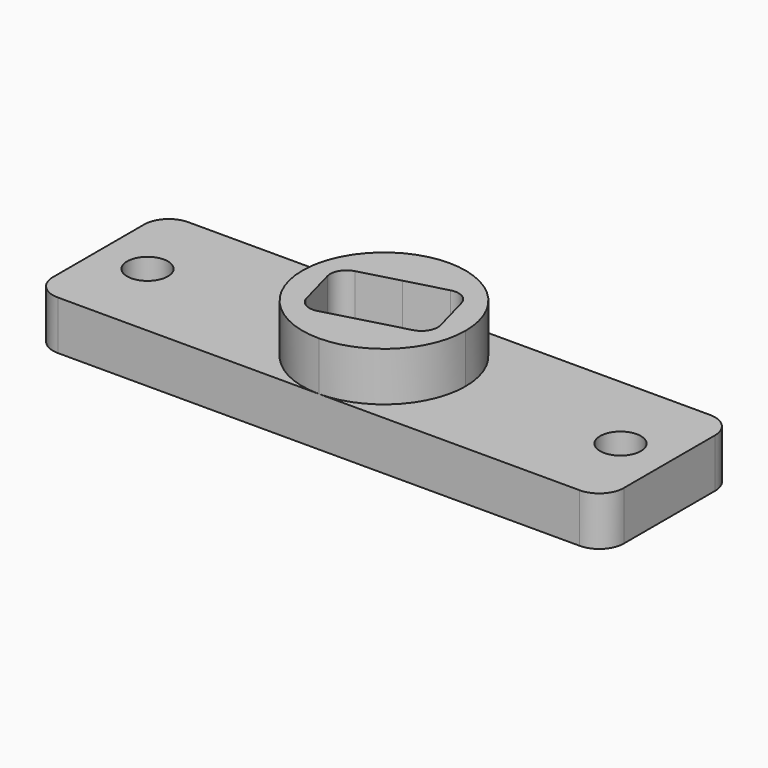
from build123d import *

# Parameters (mm, degrees)
F0_W      = 35
F0_H      = 10
F1_DEPTH  = 3
F2_R      = 1.5
F4_DEPTH  = 3
F6_DEPTH  = 6
F7_R      = 1
F8_R      = 1.25
F10_DEPTH = 3
F9_R      = 1.25
F11_DEPTH = 3


with BuildPart() as f1:
    # F0 (on Top) → F1 (new body)
    with BuildSketch(Plane.XY):
        with Locations((11.178067, 1.255235)):
            Rectangle(F0_W, F0_H)
    extrude(amount=F1_DEPTH)

    # F2
    f2_edges = [f1.edges().sort_by_distance(p)[0] for p in [
        (-6.321933, -3.744765, 1.5),
        (-6.321933, 6.255235, 1.5),
        (28.678067, -3.744765, 1.5),
        (28.678067, 6.255235, 1.5),
    ]]
    fillet(f2_edges, radius=F2_R)

    # F3 (on face) → F4 (join)
    with BuildSketch(Plane.XY.offset(3)):
        with BuildLine():
            ThreePointArc((11.178067, -3.744765), (14.713601, -2.280299), (16.178067, 1.255235))
            ThreePointArc((16.178067, 1.255235), (14.713601, 4.790769), (11.178067, 6.255235))
            ThreePointArc((11.178067, 6.255235), (6.178067, 1.255235), (11.178067, -3.744765))
        make_face()
    extrude(amount=F4_DEPTH)

    # F5 (on face) → F6 (cut)
    with BuildSketch(Plane.XY.offset(6)):
        with BuildLine():
            ThreePointArc((13.428067, 1.255235), (12.545025, 3.042391), (10.589023, 3.426762))
            ThreePointArc((10.589023, 3.426762), (9.006541, 0.666191), (11.767111, -0.916291))
            ThreePointArc((11.767111, -0.916291), (12.965222, -0.111723), (13.428067, 1.255235))
        make_face()
        with BuildLine():
            Line((13.966953, 4.343053), (10.589023, 3.426762))
            ThreePointArc((10.589023, 3.426762), (12.545025, 3.042391), (13.428067, 1.255235))
            ThreePointArc((13.428067, 1.255235), (12.965222, -0.111723), (11.767111, -0.916291))
            Line((11.767111, -0.916291), (15.145041, 0))
            Line((15.145041, 0), (13.966953, 4.343053))
        make_face()
        with BuildLine():
            Line((10.589023, 3.426762), (7.211093, 2.51047))
            Line((7.211093, 2.51047), (8.389181, -1.832582))
            Line((8.389181, -1.832582), (11.767111, -0.916291))
            ThreePointArc((11.767111, -0.916291), (9.006541, 0.666191), (10.589023, 3.426762))
        make_face()
    extrude(amount=-F6_DEPTH, mode=Mode.SUBTRACT)

    # F7
    f7_edges = [f1.edges().sort_by_distance(p)[0] for p in [
        (7.211093, 2.51047, 3),
        (8.389181, -1.832582, 3),
        (15.145041, 0, 3),
        (13.966953, 4.343053, 3),
    ]]
    fillet(f7_edges, radius=F7_R)

    # F8 (on face) → F10 (cut)
    with BuildSketch(Plane.XY.offset(3)):
        with Locations((-3.321933, 1.255235)):
            Circle(F8_R)
    extrude(amount=-F10_DEPTH, mode=Mode.SUBTRACT)

    # F9 (on face) → F11 (cut)
    with BuildSketch(Plane.XY.offset(3)):
        with Locations((25.678067, 1.255235)):
            Circle(F9_R)
    extrude(amount=-F11_DEPTH, mode=Mode.SUBTRACT)


solid = f1.part
